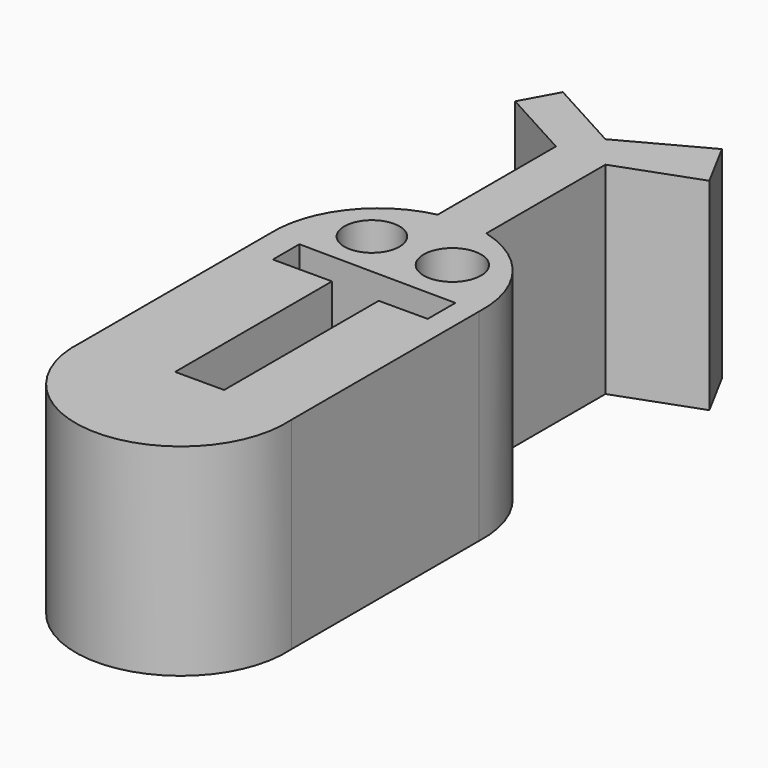
from build123d import *

# Parameters (mm, degrees)
F0_R     = 3.472863
F0_R_2   = 3.604179
F1_DEPTH = 25.4


with BuildPart() as f1:
    # F0 (on Top) → F1 (new body)
    with BuildSketch(Plane.XY):
        with BuildLine():
            Line((13.202485, 5.667426), (13.202485, 35.130091))
            ThreePointArc((13.202485, 35.130091), (10.662539, 43.570376), (3.380966, 48.537108))
            Line((3.380966, 48.537108), (3.380966, 67.268364))
            Line((3.380966, 67.268364), (13.493051, 70.964341))
            Line((13.493051, 70.964341), (10.24771, 76.999515))
            Line((10.24771, 76.999515), (0, 71.488935))
            Line((0, 71.488935), (-9.516433, 76.70256))
            Line((-9.516433, 76.70256), (-11.954483, 72.252385))
            Line((-11.954483, 72.252385), (-2.833481, 67.2554))
            Line((-2.833481, 67.2554), (-2.833481, 48.669556))
            ThreePointArc((-2.833481, 48.669556), (-10.490695, 43.799697), (-13.202949, 35.139897))
            Line((-13.202949, 35.139897), (-13.202949, 5.660794))
            ThreePointArc((-13.202949, 5.660794), (0.003324, -8.493987), (13.202485, 5.667426))
        make_face()
        Polygon((-2.082214, 31.106506), (-9.516433, 31.106506), (-9.516433, 35.272334), (10.24771, 35.095599), (10.24771, 30.74386), (4.08275, 30.74386), (4.08275, 6.446655), (-2.082214, 6.446655), align=None, mode=Mode.SUBTRACT)
        with Locations((-4.979815, 41.006282)):
            Circle(F0_R, mode=Mode.SUBTRACT)
        with Locations((4.978646, 41.209515)):
            Circle(F0_R_2, mode=Mode.SUBTRACT)
    extrude(amount=F1_DEPTH)


solid = f1.part
